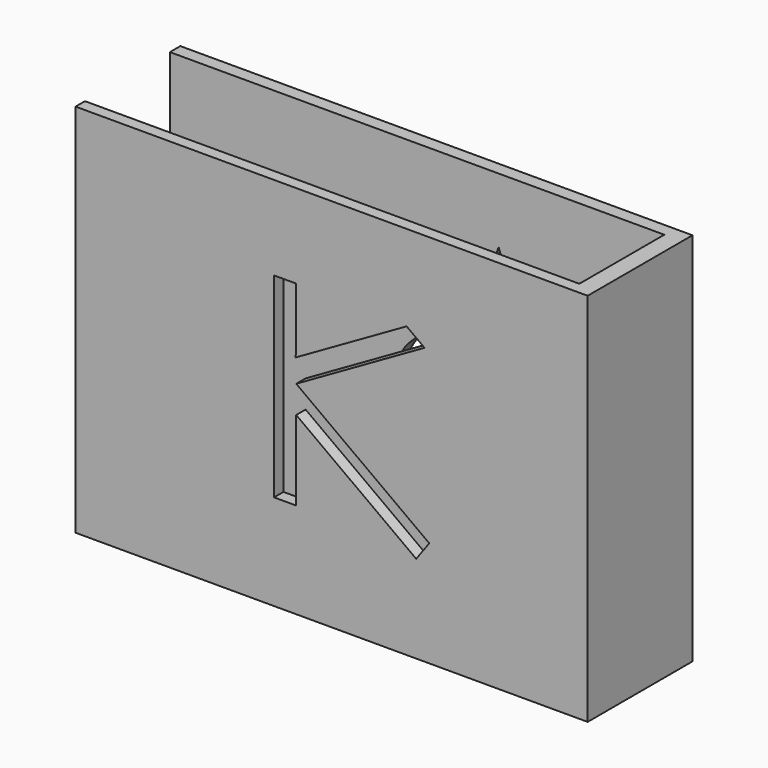
from build123d import *

# Parameters (mm, degrees)
F0_W     = 86
F0_H     = 63
F1_DEPTH = 22
F2_W     = 83.021147579
F2_H     = 17.8350203205
F3_DEPTH = 76.2
F5_DEPTH = 12.7
F7_DEPTH = 12.7


with BuildPart() as f1:
    # F0 (on Front) → F1 (new body)
    with BuildSketch(Plane.XZ):
        with Locations((2.9492415488, 0.0097374022)):
            Rectangle(F0_W, F0_H)
    extrude(amount=F1_DEPTH)

    # F2 (on face) → F3 (cut)
    with BuildSketch(Plane(origin=(0, 0, -31.4902625978), x_dir=(1, 0, 0), z_dir=(0, 0, -1))):
        with Locations((1.4598153383, 11.1068621045)):
            Rectangle(F2_W, F2_H)
    extrude(amount=-F3_DEPTH, mode=Mode.SUBTRACT)

    # F4 (on face) → F5 (cut)
    with BuildSketch(Plane(origin=(0, 0, 0), x_dir=(-1, 0, 0), z_dir=(0, 1, 0))):
        with BuildLine():
            Line((-15.1422635311, 20.7094521857), (-15.1496560163, -22.1666304386))
            Line((-15.1496560163, -22.1666304386), (-7.1757626719, -22.1666304386))
            add(Edge.make_bspline(
                [(-7.1757626719, -22.1666304386), (-7.0240950899, -21.6717555888), (-6.5645020254, -20.1721533291), (-13.2724247258, -20.8311956332), (-16.6301221041, -7.869487451), (-6.7285296104, -17.1810672319), (0.9325573177, -10.9730690732), (2.3276751638, -3.5292990134), (0.7999525604, 2.1969793638), (-9.9095984878, 8.2465186729), (-12.7862686807, 15.3709459047), (-14.9244065918, 19.8043070968), (-15.1422635311, 20.7094521857)],
                knots=[0, 0, 0, 0, 0.0427686987, 0.1296005186, 0.2337922012, 0.3391684873, 0.4474772409, 0.5490562859, 0.6366862886, 0.7649319301, 0.8756085159, 0.9518034851, 0.9518034851, 0.9518034851, 0.9518034851], degree=3))
        make_face()
        with BuildLine():
            Line((-23.1235488865, -22.163880799), (-15.1496560163, -22.1666304386))
            Line((-15.1496560163, -22.1666304386), (-15.1422635311, 20.7094521857))
            add(Edge.make_bspline(
                [(-23.1235488865, -22.163880799), (-23.2750458117, -21.6689536791), (-23.7341217407, -20.169193027), (-17.0264266968, -20.8305483864), (-13.6642599292, -7.8699988105), (-23.5690627485, -17.1781636693), (-31.2280085156, -10.9675241051), (-32.6205594418, -3.5232734091), (-31.0908623351, 2.2024778227), (-20.3792258596, 8.248323795), (-17.5000991197, 15.3717586404), (-15.3604325788, 19.8043822742), (-15.1422635311, 20.7094521857)],
                knots=[0, 0, 0, 0, 0.0427686987, 0.1296005186, 0.2337922012, 0.3391684873, 0.4474772409, 0.5490562859, 0.6366862886, 0.7649319301, 0.8756085159, 0.9518034851, 0.9518034851, 0.9518034851, 0.9518034851], degree=3))
        make_face()
    extrude(amount=-F5_DEPTH, mode=Mode.SUBTRACT)

    # F6 (on face) → F7 (cut)
    with BuildSketch(Plane.XZ.offset(22)):
        Polygon((-2.9918444343, 17.3992476049), (-6.7161070183, 17.3896308988), (-6.7161070183, -15.419350937), (-2.9918444343, -15.419350937), (-2.9918444343, -2.0301223486), (17.1575445901, -16.742385438), (19.3537324667, -13.7345651165), (-2.9918444343, 2.5812648997), (18.5556765646, 14.9067891762), (15.5478562431, 17.1029770527), (-3.1033871576, 6.4341695674), (-2.9918444343, 7.8129554167), align=None)
    extrude(amount=-F7_DEPTH, mode=Mode.SUBTRACT)


solid = f1.part
